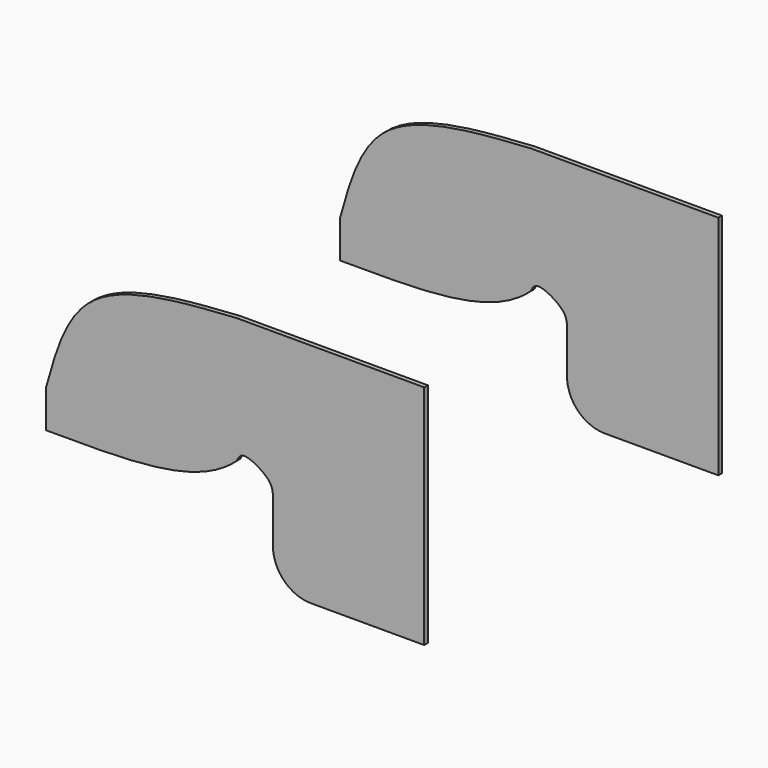
from build123d import *

# Parameters (mm, degrees)
F2_DEPTH = 6


with BuildPart() as f2:
    # F1 (on offset) → F2 (new body)
    with BuildSketch(Plane.XZ.offset(240)):
        with BuildLine():
            Line((-1340, 185.4176840593), (-1340, 135.4176840593))
            add(Edge.make_bspline(
                [(-1340, 135.4176840593), (-1305.2588677716, 135.3302349414), (-1194.0011933899, 134.6169868725), (-1122.6089184133, 150.2715667972), (-1088, 181.7327326495)],
                knots=[0.4780480694, 0.4780480694, 0.4780480694, 0.4780480694, 0.6440044366, 1, 1, 1, 1], degree=3))
            add(Edge.make_bspline(
                [(-1088, 181.7327326495), (-1086.0125616478, 185.9144425465), (-1080.6037347878, 197.2949941927), (-1041.9084770203, 175.1232046951), (-1040.547044774, 162.6205989342), (-1040, 157.5968563557)],
                knots=[0, 0, 0, 0, 0.2578724205, 0.7018015291, 1, 1, 1, 1], degree=3))
            Line((-1040, 157.5968563557), (-1040, 98))
            ThreePointArc((-1040, 98), (-1025.3553390593, 62.6446609407), (-990, 48))
            Line((-990, 48), (-840, 48))
            Line((-840, 48), (-840, 348))
            Line((-840, 348), (-1088, 348))
            add(Edge.make_bspline(
                [(-1340, 185.4176840593), (-1327.2525671424, 231.6908295083), (-1299.0817849813, 333.9506895842), (-1162.6795036851, 343.0294359645), (-1088, 348)],
                knots=[0, 0, 0, 0, 0.4525054642, 1, 1, 1, 1], degree=3))
        make_face()
    extrude(amount=F2_DEPTH)


with BuildPart() as f3_1:
    # F3: instance of F2
    add(f2.part.mirror(Plane.XZ))


solid = Compound([f2.part, f3_1.part])
